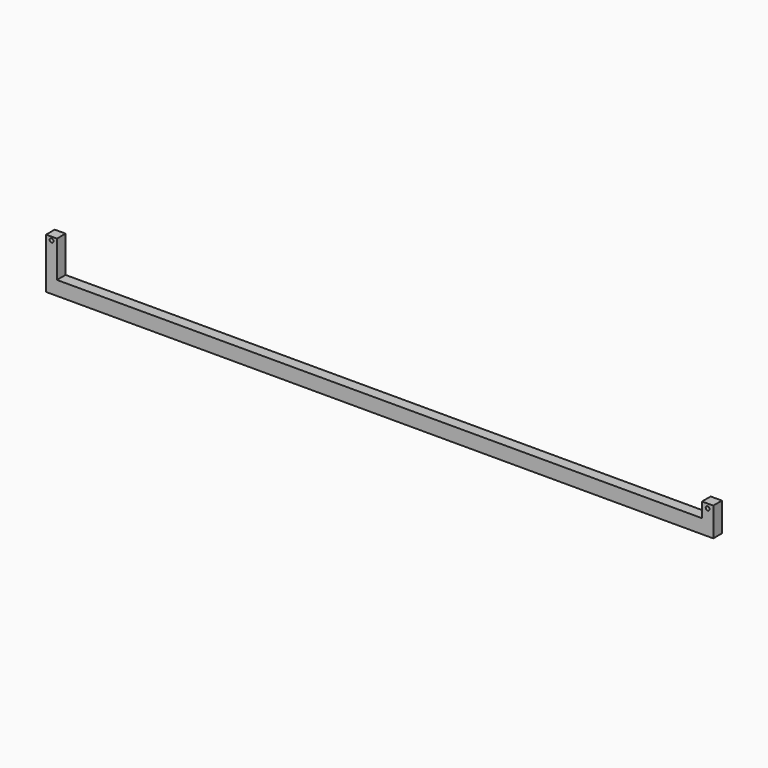
from build123d import *

# Parameters (mm, degrees)
F0_W      = 402.716755867
F0_H      = 33.2859903574
F0_R      = 5.6242555467
F0_R_2    = 6.4778171832
F1_DEPTH  = 38.1
F2_W      = 38.3573174477
F2_H      = 38.0631610751
F2_W_2    = 38.1057113409
F2_H_2    = 64.2758011818
F3_DEPTH  = 38.1
F5_W      = 38.1631851196
F5_H      = 127.9387325048
F5_W_2    = 39.5579338074
F5_H_2    = 51.9060492516
F6_DEPTH  = 38.1
F7_R      = 6.7958300096
F8_DEPTH  = 38.1
F9_R      = 6.7663923414
F10_DEPTH = 38.1


with BuildPart() as f1:
    # F0 (on Front) → F1 (new body)
    with BuildSketch(Plane.XZ):
        Rectangle(F0_W, F0_H)
        with Locations((-185.6416612864, 0)):
            Circle(F0_R, mode=Mode.SUBTRACT)
        with Locations((89.5006582141, 0)):
            Circle(F0_R_2, mode=Mode.SUBTRACT)
    extrude(amount=F1_DEPTH)

    # F2 (on face) → F3 (join)
    with BuildSketch(Plane(origin=(0, 0, 0), x_dir=(-1, 0, 0), z_dir=(0, 1, 0))):
        with Locations((-182.1797192097, 35.6745757163)):
            Rectangle(F2_W, F2_H)
        with Locations((182.3055222631, 48.7808957696)):
            Rectangle(F2_W_2, F2_H_2)
    extrude(amount=-F3_DEPTH)


with BuildPart() as f6:
    # F5 (on Front) → F6 (new body)
    with BuildSketch(Plane.XZ):
        with Locations((-1154.2205810547, 88.7996628881)):
            Rectangle(F5_W, F5_H)
        Polygon((-1135.1389884949, 24.8302966356), (-1173.3021736145, 24.8302966356), (-1173.3021736145, -24.8302966356), (1173.3021736145, -24.8302966356), (1173.3021736145, 24.8302966356), (1133.7442398071, 24.8302966356), align=None)
        with Locations((1153.5232067108, 50.7833212614)):
            Rectangle(F5_W_2, F5_H_2)
    extrude(amount=F6_DEPTH)

    # F7 (on face) → F8 (cut)
    with BuildSketch(Plane.XZ.offset(38.1)):
        with Locations((-1154.2205810547, 140.7451480627)):
            Circle(F7_R)
    extrude(amount=-F8_DEPTH, mode=Mode.SUBTRACT)

    # F9 (on face) → F10 (cut)
    with BuildSketch(Plane.XZ.offset(38.1)):
        with Locations((1153.5232067108, 61.4623762667)):
            Circle(F9_R)
    extrude(amount=-F10_DEPTH, mode=Mode.SUBTRACT)


with BuildPart() as f11_1:
    # F11: copy of F6
    add(f6.part)


solid = Compound([f6.part, f11_1.part])
